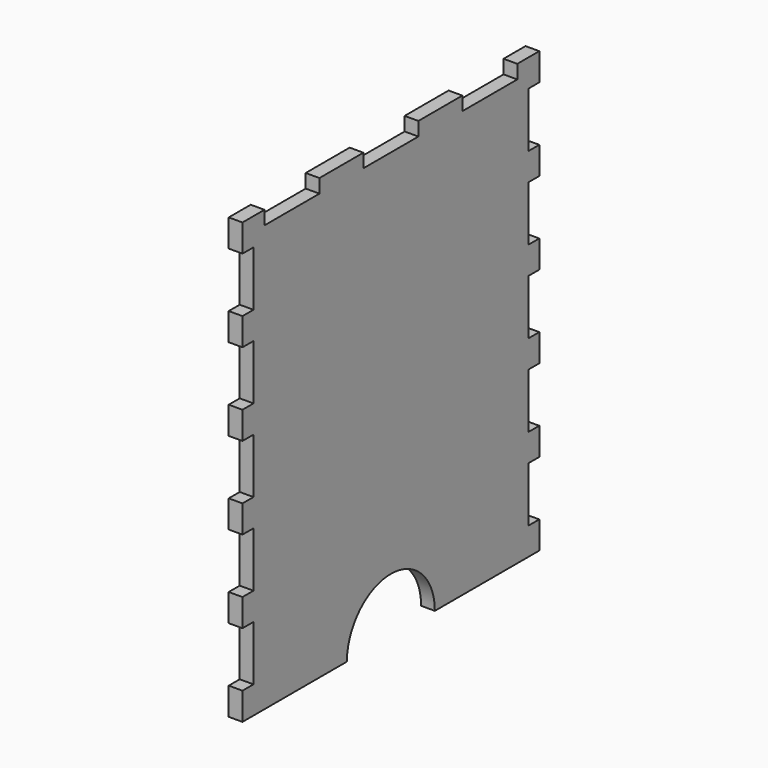
from build123d import *

# Parameters (mm, degrees)
F0_W     = 85.725
F0_H     = 101.6
F1_DEPTH = 3.175
F2_W     = 3.175
F2_H     = 12.7
F3_DEPTH = 3.176
F4_W     = 15.875
F4_H     = 3.175
F5_DEPTH = 3.176
F7_DEPTH = 3.176


with BuildPart() as f1:
    # F0 (on Right) → F1 (new body)
    with BuildSketch(Plane.YZ):
        Rectangle(F0_W, F0_H)
    extrude(amount=F1_DEPTH)

    # F2 (on face) → F3 (cut, through all)
    with BuildSketch(Plane.YZ.offset(3.175)):
        with Locations((-41.275, -38.1)):
            Rectangle(F2_W, F2_H)
        with Locations((-41.275, -19.05)):
            Rectangle(F2_W, F2_H)
        with Locations((-41.275, 0)):
            Rectangle(F2_W, F2_H)
        with Locations((-41.275, 19.05)):
            Rectangle(F2_W, F2_H)
        with Locations((-41.275, 38.1)):
            Rectangle(F2_W, F2_H)
        with Locations((41.275, -38.1)):
            Rectangle(F2_W, F2_H)
        with Locations((41.275, -19.05)):
            Rectangle(F2_W, F2_H)
        with Locations((41.275, 38.1)):
            Rectangle(F2_W, F2_H)
        with Locations((41.275, 19.05)):
            Rectangle(F2_W, F2_H)
        with Locations((41.275, 0)):
            Rectangle(F2_W, F2_H)
    extrude(amount=-F3_DEPTH, mode=Mode.SUBTRACT)

    # F4 (on face) → F5 (cut, through all)
    with BuildSketch(Plane.YZ.offset(3.175)):
        with Locations((-28.575, 49.2125)):
            Rectangle(F4_W, F4_H)
        with Locations((0, 49.2125)):
            Rectangle(F4_W, F4_H)
        with Locations((28.575, 49.2125)):
            Rectangle(F4_W, F4_H)
    extrude(amount=-F5_DEPTH, mode=Mode.SUBTRACT)

    # F6 (on face) → F7 (cut, through all)
    with BuildSketch(Plane.YZ.offset(3.175)):
        with BuildLine():
            add(Edge.make_bspline(
                [(12.7, -50.8), (12.7, -28.802955), (-6.35, -39.801477), (-25.4, -50.8), (-6.35, -61.798523), (12.7, -72.797045), (12.7, -50.8)],
                knots=[0, 0, 0, 2.094395, 2.094395, 4.18879, 4.18879, 6.283185, 6.283185, 6.283185], degree=2, weights=[1, 0.5, 1, 0.5, 1, 0.5, 1]))
        make_face()
    extrude(amount=-F7_DEPTH, mode=Mode.SUBTRACT)


solid = f1.part
